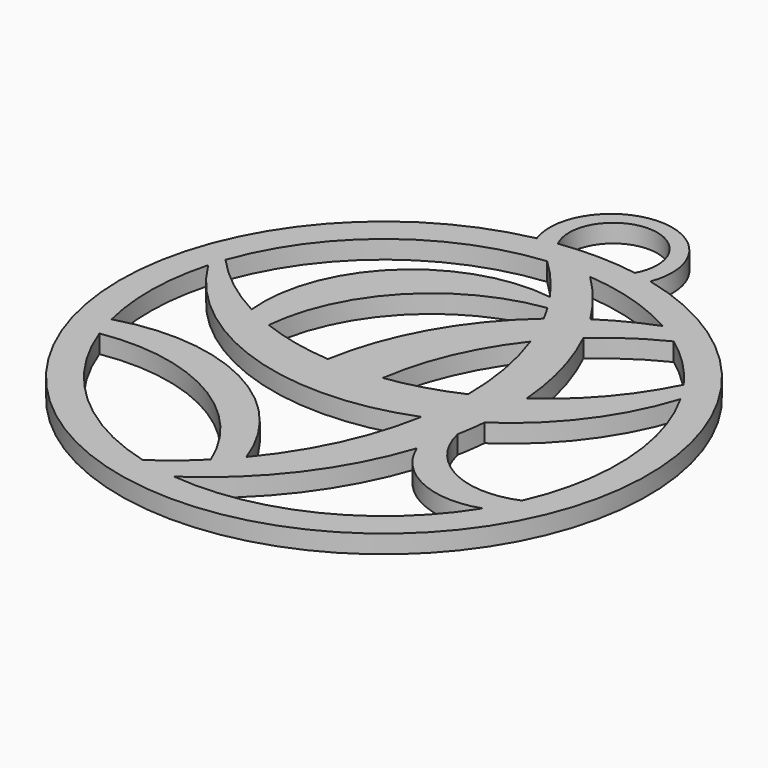
from build123d import *

# Parameters (mm, degrees)
F1_DEPTH = 1.5748


with BuildPart() as f1:
    # F0 (on Top) → F1 (new body)
    with BuildSketch(Plane.XY):
        with BuildLine():
            ThreePointArc((5.263262, 22.20614), (0.397166, 29.418136), (-4.661854, 22.340137))
            ThreePointArc((-4.661854, 22.340137), (-0.308077, -22.819283), (5.263262, 22.20614))
        make_face()
        with BuildLine():
            ThreePointArc((-1.640746, -16.661716), (-3.345192, -18.204578), (-5.180914, -19.588659))
            ThreePointArc((-5.180914, -19.588659), (-13.649353, -14.975065), (-19.025933, -6.96931))
            ThreePointArc((-19.025933, -6.96931), (-8.634689, -8.768658), (-1.640746, -16.661716))
        make_face(mode=Mode.SUBTRACT)
        with BuildLine():
            ThreePointArc((-19.674119, -4.846285), (-20.260069, 0.29501), (-19.524672, 5.417065))
            ThreePointArc((-19.524672, 5.417065), (-8.494596, -3.3157), (5.568185, -2.913289))
            ThreePointArc((5.568185, -2.913289), (3.566287, -9.258551), (0, -14.875627))
            ThreePointArc((0, -14.875627), (-7.823022, -5.910107), (-19.674119, -4.846285))
        make_face(mode=Mode.SUBTRACT)
        with BuildLine():
            ThreePointArc((17.157657, -10.778322), (8.90675, -18.199649), (-2.015885, -20.161687))
            ThreePointArc((-2.015885, -20.161687), (4.209028, -14.274485), (8.196011, -6.690774))
            ThreePointArc((8.196011, -6.690774), (11.859579, -10.526319), (17.157657, -10.778322))
        make_face(mode=Mode.SUBTRACT)
        with BuildLine():
            ThreePointArc((18.518239, -8.223883), (12.677816, -8.034304), (9.081021, -3.428922))
            Line((9.081021, -3.428922), (9.055581, -3.378149))
            ThreePointArc((9.055581, -3.378149), (9.26056, -2.142716), (9.406133, -0.898884))
            ThreePointArc((9.406133, -0.898884), (14.438923, 3.868342), (17.601553, 10.037069))
            ThreePointArc((17.601553, 10.037069), (20.236735, 1.015869), (18.518239, -8.223883))
        make_face(mode=Mode.SUBTRACT)
        with BuildLine():
            ThreePointArc((-10.871861, 1.13555), (-6.679943, 10.264653), (2.264509, 14.837342))
            ThreePointArc((2.264509, 14.837342), (2.663851, 14.152872), (3.041864, 13.456396))
            ThreePointArc((3.041864, 13.456396), (-1.989535, 7.265242), (-4.640121, -0.259368))
            ThreePointArc((-4.640121, -0.259368), (-7.807455, 0.208177), (-10.871861, 1.13555))
        make_face(mode=Mode.SUBTRACT)
        with BuildLine():
            ThreePointArc((-19.104448, 6.751109), (-12.509118, 15.939868), (-2.015885, 20.161687))
            ThreePointArc((-2.015885, 20.161687), (-0.216312, 18.267253), (1.381236, 16.199601))
            ThreePointArc((1.381236, 16.199601), (-9.310561, 12.73715), (-13.201463, 2.193717))
            ThreePointArc((-13.201463, 2.193717), (-16.349704, 4.217574), (-19.104448, 6.751109))
        make_face(mode=Mode.SUBTRACT)
        with BuildLine():
            ThreePointArc((0, 0), (1.543997, 5.431651), (4.437883, 10.280588))
            ThreePointArc((4.437883, 10.280588), (5.572299, 6.026021), (5.962493, 1.640136))
            ThreePointArc((5.962493, 1.640136), (3.016961, 0.547615), (-0.05522, -0.109242))
            Line((-0.05522, -0.109242), (0, 0))
        make_face(mode=Mode.SUBTRACT)
        with BuildLine():
            ThreePointArc((6.901875, 12.91548), (9.318086, 14.809362), (11.977507, 16.343095))
            ThreePointArc((11.977507, 16.343095), (14.396136, 14.258636), (16.457288, 11.820114))
            ThreePointArc((16.457288, 11.820114), (13.461459, 7.279811), (9.432887, 3.624684))
            ThreePointArc((9.432887, 3.624684), (8.598886, 8.387634), (6.901875, 12.91548))
        make_face(mode=Mode.SUBTRACT)
        with BuildLine():
            ThreePointArc((1.66691, 20.193534), (5.962289, 19.365137), (9.97976, 17.634109))
            ThreePointArc((9.97976, 17.634109), (7.70483, 16.615552), (5.551587, 15.360041))
            ThreePointArc((5.551587, 15.360041), (3.753084, 17.892389), (1.66691, 20.193534))
        make_face(mode=Mode.SUBTRACT)
        with BuildLine():
            ThreePointArc((-3.055623, 22.615874), (0.383417, 28.170774), (3.670001, 22.524335))
            ThreePointArc((3.670001, 22.524335), (0.31058, 22.819249), (-3.055623, 22.615874))
        make_face(mode=Mode.SUBTRACT)
    extrude(amount=F1_DEPTH)


solid = f1.part
